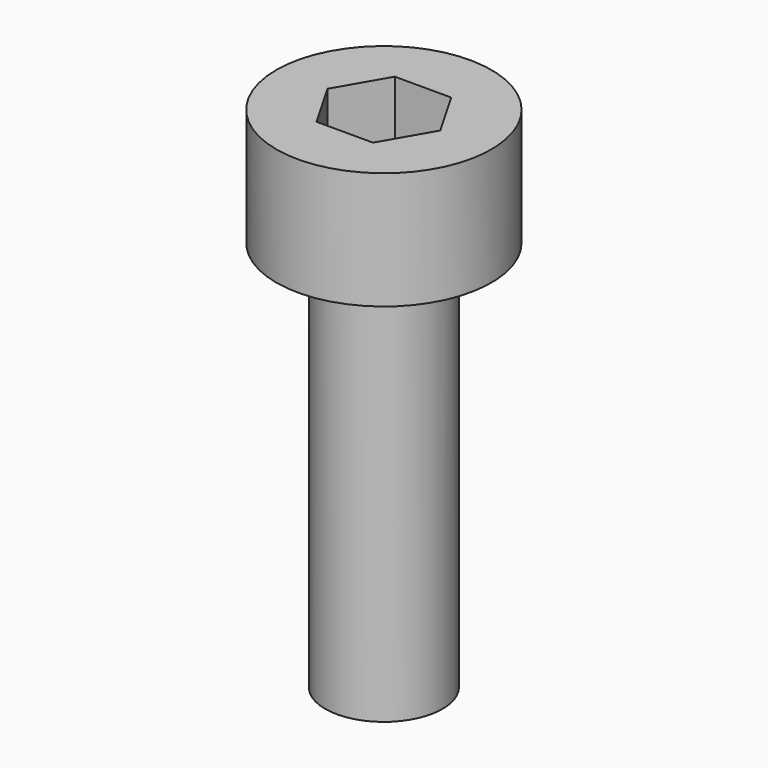
from build123d import *

# Parameters (mm, degrees)
F3_DEPTH = 1.5


with BuildPart() as f1:
    # F0 (on Front) → F1 (revolve)
    with BuildSketch(Plane.XZ):
        Polygon((0, -13), (0, 0), (-2.75, 0), (-2.75, -3), (-1.5, -3), (-1.5, -13), align=None)
    revolve(axis=Axis((0, 0, -6.5), (0, 0, 1)))

    # F2 (on face) → F3 (cut)
    with BuildSketch(Plane.XY):
        Polygon((0.721688, 1.25), (-0.721688, 1.25), (-1.443376, 0), (-0.721688, -1.25), (0.721688, -1.25), (1.443376, 0), align=None)
    extrude(amount=-F3_DEPTH, mode=Mode.SUBTRACT)


solid = f1.part
